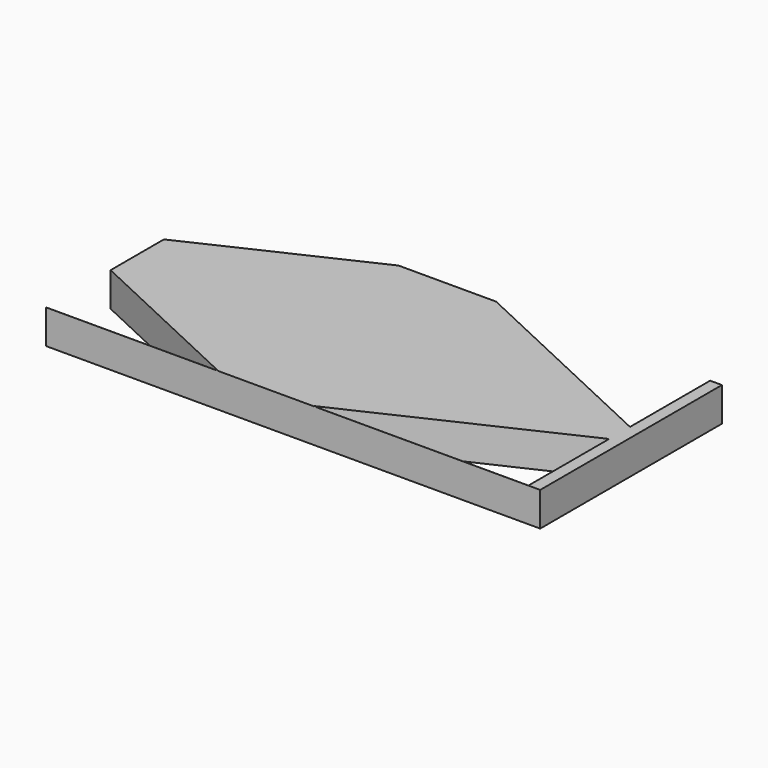
from build123d import *

# Parameters (mm, degrees)
F0_W     = 276.225
F0_H     = 127
F1_DEPTH = 19.05
F4_DEPTH = 25.4


with BuildPart() as f1:
    # F0 (on Top) → F1 (new body)
    with BuildSketch(Plane.XY):
        with Locations((15.390978, -2.369146)):
            Rectangle(F0_W, F0_H)
    extrude(amount=F1_DEPTH)

    # F3 (on face) → F4 (cut)
    with BuildSketch(Plane.XY.offset(19.05)):
        Polygon((-26.429687, 61.530381), (-146.907181, 61.530381), (-146.907181, 5.145296), align=None)
        Polygon((-146.907181, -65.84312), (-26.429687, -65.84312), (-146.907181, -9.458034), align=None)
        Polygon((146.907181, 61.530381), (26.429687, 61.530381), (146.907181, 5.145296), align=None)
        Polygon((26.429687, -65.84312), (146.907181, -65.84312), (146.907181, -9.458034), align=None)
    extrude(amount=-F4_DEPTH, mode=Mode.SUBTRACT)


solid = f1.part
